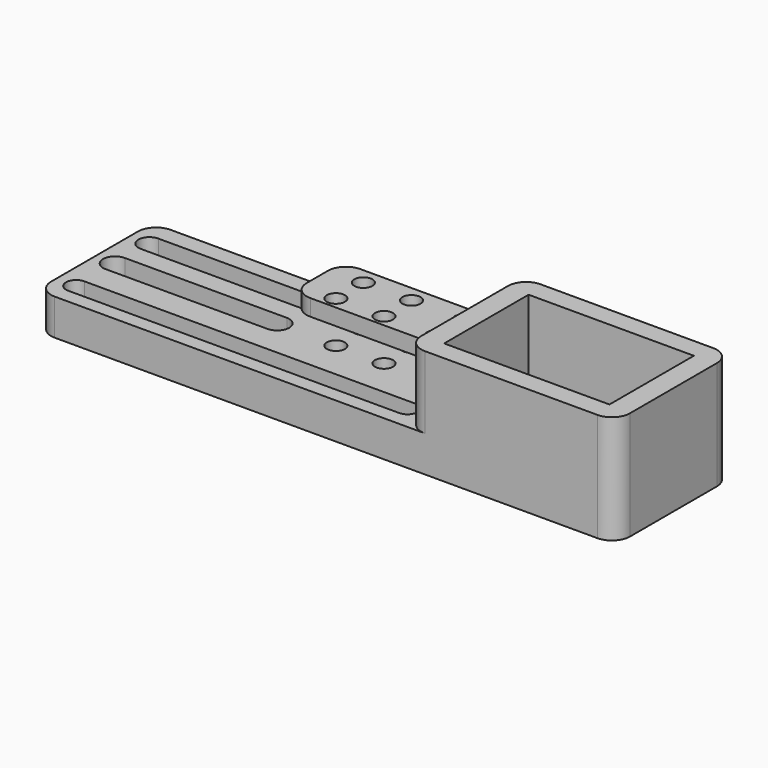
from build123d import *

# Parameters (mm, degrees)
F0_W      = 146.954681846
F0_H      = 50.8
F0_W_2    = 56.245318154
F1_DEPTH  = 12.7
F2_W      = 73.3197343707
F2_H      = 50.8
F3_DEPTH  = 25.4
F4_W      = 58.0222320914
F4_H      = 37.0360761881
F5_DEPTH  = 25.4
F7_DEPTH  = 6.35
F8_R      = 6.35
F9_W      = 22.0035612583
F9_H      = 5.7547800243
F10_DEPTH = 57.15
F11_R     = 6.35
F13_D     = 6.35


with BuildPart() as f1:
    # F0 (on Top) → F1 (new body)
    with BuildSketch(Plane.XY):
        with Locations((-28.122659077, 0)):
            Rectangle(F0_W, F0_H)
        with Locations((73.477340923, 0)):
            Rectangle(F0_W_2, F0_H)
    extrude(amount=F1_DEPTH)

    # F2 (on face) → F3 (join)
    with BuildSketch(Plane.XY.offset(12.7)):
        with Locations((64.9401328146, 0)):
            Rectangle(F2_W, F2_H)
    extrude(amount=F3_DEPTH)

    # F4 (on face) → F5 (cut)
    with BuildSketch(Plane.XY.offset(38.1)):
        with Locations((64.9401328146, 0)):
            Rectangle(F4_W, F4_H)
    extrude(amount=-F5_DEPTH, mode=Mode.SUBTRACT)

    # F6 (on face) → F7 (cut)
    with BuildSketch(Plane.XY.offset(12.7)):
        with BuildLine():
            Line((-37.7411283553, 19.2452520132), (-94.6118757129, 19.2452520132))
            ThreePointArc((-94.6118757129, 19.2452520132), (-98.5048138537, 15.3523138724), (-94.6118757129, 11.4593757316))
            Line((-94.6118757129, 11.4593757316), (-37.7411283553, 11.4593757316))
            ThreePointArc((-37.7411283553, 11.4593757316), (-33.8481902145, 15.3523138724), (-37.7411283553, 19.2452520132))
        make_face()
        with BuildLine():
            Line((-37.7411283553, 4.519790411), (-94.6118757129, 4.519790411))
            ThreePointArc((-94.6118757129, 4.519790411), (-98.8433300517, 0.2883360721), (-94.6118757129, -3.9431182668))
            Line((-94.6118757129, -3.9431182668), (-37.7411283553, -3.9431182668))
            ThreePointArc((-37.7411283553, -3.9431182668), (-33.5096740164, 0.2883360721), (-37.7411283553, 4.519790411))
        make_face()
        with BuildLine():
            Line((21.6684918851, -13.2523179054), (-94.6118757129, -13.2523179054))
            ThreePointArc((-94.6118757129, -13.2523179054), (-98.1662971899, -16.8067393824), (-94.6118757129, -20.3611608595))
            Line((-94.6118757129, -20.3611608595), (21.6684918851, -20.3611608595))
            ThreePointArc((21.6684918851, -20.3611608595), (25.2229133621, -16.8067393824), (21.6684918851, -13.2523179054))
        make_face()
    extrude(amount=-F7_DEPTH, mode=Mode.SUBTRACT)

    # F8
    f8_edges = [f1.edges().sort_by_distance(p)[0] for p in [
        (28.280266, -25.4, 25.4),
        (28.280266, 25.4, 25.4),
        (-101.6, -25.4, 6.35),
        (-101.6, 25.4, 6.35),
        (101.6, 25.4, 19.05),
        (101.6, -25.4, 19.05),
    ]]
    fillet(f8_edges, radius=F8_R)

    # F9 (on face) → F10 (join)
    with BuildSketch(Plane(origin=(28.2802656293, 0, 0), x_dir=(0, -1, 0), z_dir=(-1, 0, 0))):
        with Locations((-6.8131443113, 24.4069304317)):
            Rectangle(F9_W, F9_H)
    extrude(amount=F10_DEPTH)

    # F11
    f11_edges = [f1.edges().sort_by_distance(p)[0] for p in [
        (-28.869734, -4.188636, 24.40693),
        (-28.869734, 17.814925, 24.40693),
    ]]
    fillet(f11_edges, radius=F11_R)

    # F13 (through all)
    with Locations(Plane.XY.offset(27.2843204439)):
        with Locations((-16.899863258, 12.0606217533), (0, 12.0606217533), (18.3064360172, 12.0606217533), (18.3064360172, 0), (0, 0), (-16.899863258, 0)):
            Hole(F13_D / 2)


solid = f1.part
